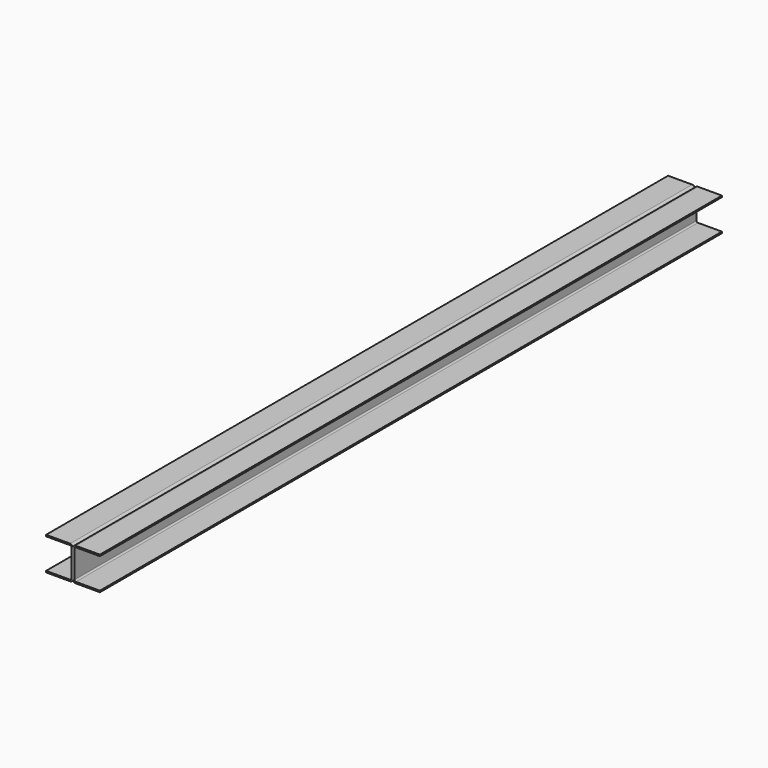
from build123d import *

# Parameters (mm, degrees)
F1_DEPTH = 2168


with BuildPart() as f1:
    # F0 (on Front) → F1 (new body)
    with BuildSketch(Plane.XZ):
        with BuildLine():
            Line((0, 38.25), (0, -38.25))
            ThreePointArc((0, -38.25), (2.343146, -43.906854), (8, -46.25))
            Line((8, -46.25), (75, -46.25))
            Line((75, -46.25), (75, -42.25))
            Line((75, -42.25), (8, -42.25))
            ThreePointArc((8, -42.25), (5.171573, -41.078427), (4, -38.25))
            Line((4, -38.25), (4, 38.25))
            ThreePointArc((4, 38.25), (5.171573, 41.078427), (8, 42.25))
            Line((8, 42.25), (75, 42.25))
            Line((75, 42.25), (75, 46.25))
            Line((75, 46.25), (8, 46.25))
            ThreePointArc((8, 46.25), (2.343146, 43.906854), (0, 38.25))
        make_face()
        with BuildLine():
            Line((-75, -42.25), (-75, -46.25))
            Line((-75, -46.25), (-8, -46.25))
            ThreePointArc((-8, -46.25), (-2.343146, -43.906854), (0, -38.25))
            Line((0, -38.25), (0, 38.25))
            ThreePointArc((0, 38.25), (-2.343146, 43.906854), (-8, 46.25))
            Line((-8, 46.25), (-75, 46.25))
            Line((-75, 46.25), (-75, 42.25))
            Line((-75, 42.25), (-8, 42.25))
            ThreePointArc((-8, 42.25), (-5.171573, 41.078427), (-4, 38.25))
            Line((-4, 38.25), (-4, -38.25))
            ThreePointArc((-4, -38.25), (-5.171573, -41.078427), (-8, -42.25))
            Line((-8, -42.25), (-75, -42.25))
        make_face()
    extrude(amount=-F1_DEPTH)


solid = f1.part
